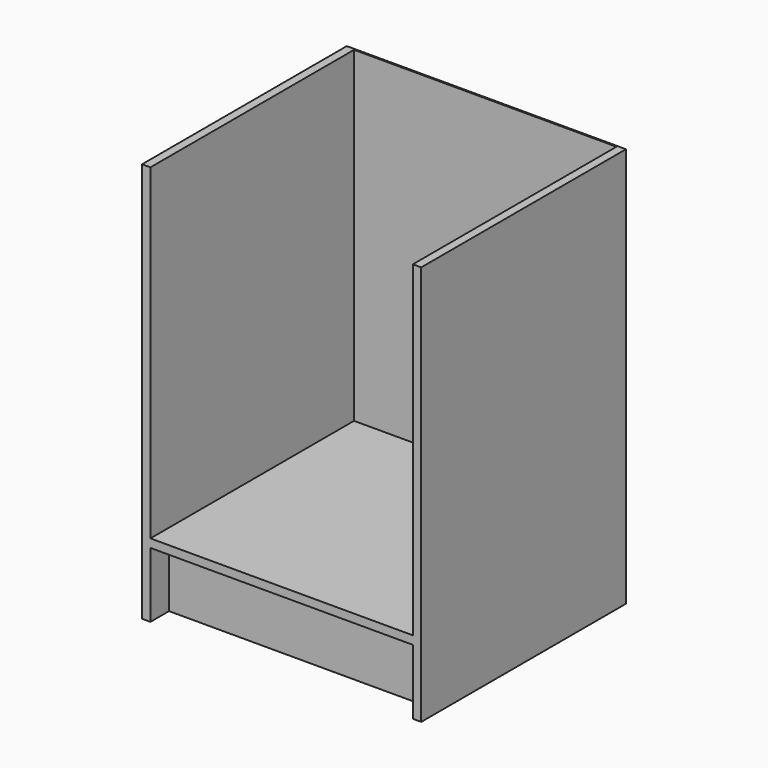
from build123d import *

# Parameters (mm, degrees)
F2_DEPTH = 720
F1_W     = 600
F1_H     = 550
F3_DEPTH = 18
F5_DEPTH = 140


with BuildPart() as f2:
    # F0 (on Top) → F2 (new body)
    with BuildSketch(Plane.XY):
        Polygon((81.165642, 504.102758), (-518.834358, 504.102758), (-518.834358, -45.897242), (-500.834358, -45.897242), (-500.834358, 501.102758), (63.165642, 501.102758), (63.165642, -45.897242), (81.165642, -45.897242), align=None)
    extrude(amount=F2_DEPTH)

    # F1 (on Top) → F3 (join)
    with BuildSketch(Plane.XY):
        with Locations((-218.834358, 229.102758)):
            Rectangle(F1_W, F1_H)
    extrude(amount=F3_DEPTH)

    # F4 (on Top) → F5 (join)
    with BuildSketch(Plane.XY):
        Polygon((81.165642, 504.102758), (-518.834358, 504.102758), (-518.834358, -45.897242), (-500.834358, -45.897242), (-500.834358, 4.102758), (63.165642, 4.102758), (63.165642, -45.897242), (81.165642, -45.897242), align=None)
    extrude(amount=-F5_DEPTH)


solid = f2.part
